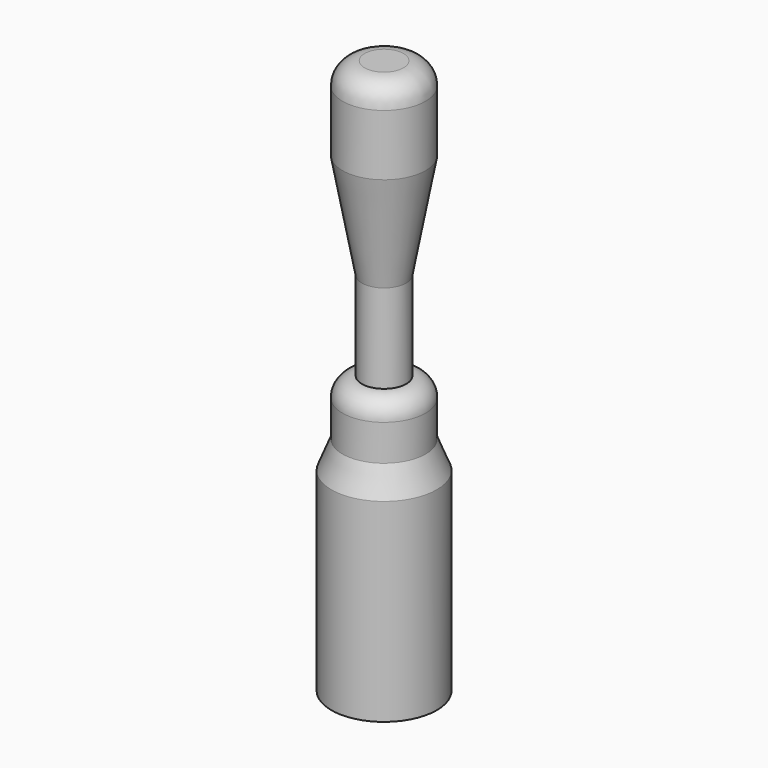
from build123d import *


with BuildPart() as f1:
    # F0 (on Front) → F1 (revolve)
    with BuildSketch(Plane.XZ):
        with BuildLine():
            Line((3.5, 0), (0, 0))
            Line((0, 0), (0, -100))
            Line((0, -100), (9.5, -100))
            Line((9.5, -100), (9.5, -65))
            Line((9.5, -65), (7.5, -60))
            Line((7.5, -60), (7.5, -53.5))
            ThreePointArc((7.5, -53.5), (6.474874, -51.025126), (4, -50))
            Line((4, -50), (4, -34))
            Line((4, -34), (7.5, -15))
            Line((7.5, -15), (7.5, -4))
            ThreePointArc((7.5, -4), (6.328427, -1.171573), (3.5, 0))
        make_face()
    revolve(axis=Axis((0, 0, -50), (0, 0, 1)))


solid = f1.part
